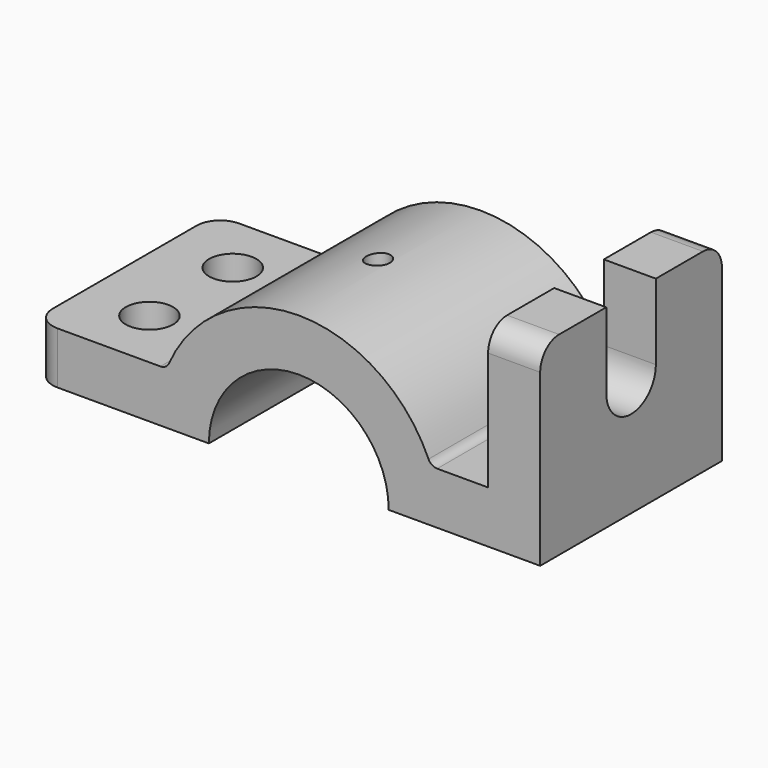
from build123d import *

# Parameters (mm, degrees)
F1_DEPTH = 609.6
F3_DEPTH = 279.4
F4_R     = 127
F5_R     = 127
F6_R     = 127
F7_DEPTH = 279.4
F8_DEPTH = 279.4
F9_D     = 127
F9_DEPTH = 279.4
F9_START = 203.2000001
F9_TIP   = 38.1546493083
F10_R    = 127
F11_R    = 50.8


with BuildPart() as f1:
    # F0 (on Front) → F1 (new body, symmetric)
    with BuildSketch(Plane.XZ):
        with BuildLine():
            Line((-1359.4019456148, -429.6511576342), (-1359.4019456148, -709.0511576342))
            Line((-1359.4019456148, -709.0511576342), (-419.6019456148, -709.0511576342))
            ThreePointArc((-419.6019456148, -709.0511576342), (62.9980543852, -226.4511576342), (545.5980543852, -709.0511576342))
            Line((545.5980543852, -709.0511576342), (1358.3980543852, -709.0511576342))
            Line((1358.3980543852, -709.0511576342), (1358.3980543852, 332.3488423657))
            Line((1358.3980543852, 332.3488423657), (1078.9980543852, 332.3488423657))
            Line((1078.9980543852, 332.3488423657), (1078.9980543852, -429.6511576342))
            Line((1078.9980543852, -429.6511576342), (771.9265698224, -429.6511576342))
            ThreePointArc((771.9265698224, -429.6511576342), (62.9980543852, 52.9488423658), (-645.930461052, -429.6511576342))
            Line((-645.930461052, -429.6511576342), (-1359.4019456148, -429.6511576342))
        make_face()
    extrude(amount=F1_DEPTH, both=True)

    # F2 (on face) → F3 (cut)
    with BuildSketch(Plane.YZ.offset(1358.3980543852)):
        with BuildLine():
            Line((166.3447904319, -74.0511576342), (166.3447904319, 332.3488423657))
            Line((166.3447904319, 332.3488423657), (-166.3447904319, 332.3488423657))
            Line((-166.3447904319, 332.3488423657), (-166.3447904319, -74.0511576342))
            ThreePointArc((-166.3447904319, -74.0511576342), (0, -240.3959480662), (166.3447904319, -74.0511576342))
        make_face()
    extrude(amount=-F3_DEPTH, mode=Mode.SUBTRACT)

    # F4
    f4_edges = [f1.edges().sort_by_distance(p)[0] for p in [
        (1218.698054, -609.6, 332.348842),
    ]]
    fillet(f4_edges, radius=F4_R)

    # F5
    f5_edges = [f1.edges().sort_by_distance(p)[0] for p in [
        (1218.698054, 609.6, 332.348842),
    ]]
    fillet(f5_edges, radius=F5_R)

    # F6 (on face) → F7 (cut)
    with BuildSketch(Plane.XY.offset(-429.6511576342)):
        with Locations((-1002.6662033334, -279.4)):
            Circle(F6_R)
    extrude(amount=-F7_DEPTH, mode=Mode.SUBTRACT)

    # F6 (on face) → F8 (cut)
    with BuildSketch(Plane.XY.offset(-429.6511576342)):
        with Locations((-1002.6662033334, 279.4)):
            Circle(F6_R)
    extrude(amount=-F8_DEPTH, mode=Mode.SUBTRACT)

    # F9
    # its depths count from where the whole tool has entered the part; down to there all is cleared
    with Locations(Plane(origin=(0, 0, -429.6511576342), x_dir=(1, 0, 0), z_dir=(0, 0, -1)).offset(-F9_START)):
        with Locations((0, 0)):
            Hole(F9_D / 2, depth=F9_DEPTH)
            with Locations((0, 0, -(F9_DEPTH + F9_TIP / 2))):  # 118° drill point
                Cone(0, F9_D / 2, F9_TIP, mode=Mode.SUBTRACT)

    # F10
    f10_edges = [f1.edges().sort_by_distance(p)[0] for p in [
        (-1359.401946, 609.6, -569.351158),
        (-1359.401946, -609.6, -569.351158),
    ]]
    fillet(f10_edges, radius=F10_R)

    # F11
    f11_edges = [f1.edges().sort_by_distance(p)[0] for p in [
        (-645.930461, 0, -429.651158),
        (771.92657, 0, -429.651158),
    ]]
    fillet(f11_edges, radius=F11_R)


solid = f1.part
